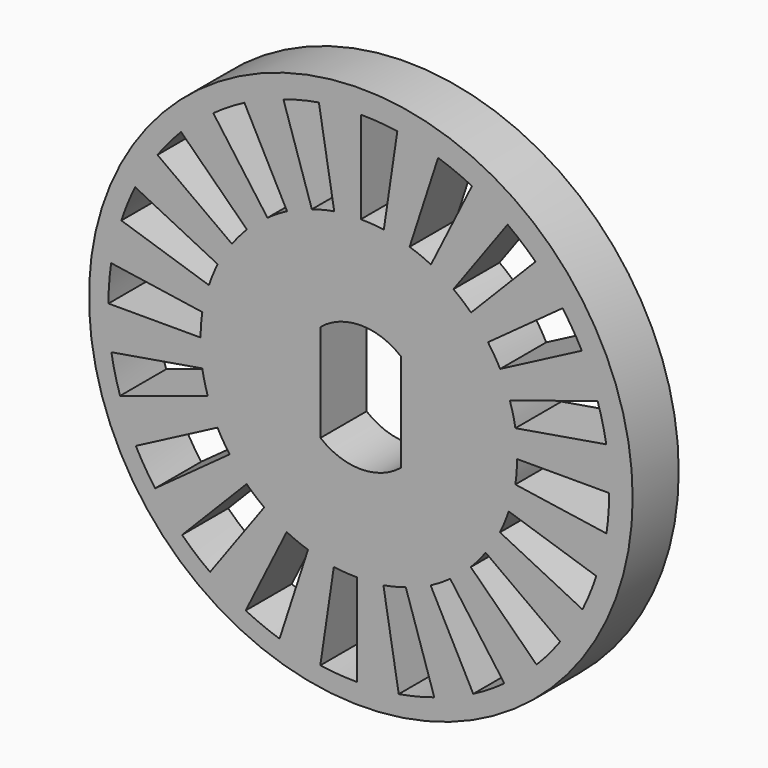
from build123d import *

# Parameters (mm, degrees)
F0_R     = 11.8
F1_DEPTH = 1.25
F3_DEPTH = 2.501
F5_DEPTH = 2.501


with BuildPart() as f1:
    # F0 (on Front) → F1 (new body, symmetric)
    with BuildSketch(Plane.XZ):
        Circle(F0_R)
    extrude(amount=F1_DEPTH, both=True)

    # F2 (on face) → F3 (cut, through all)
    with BuildSketch(Plane(origin=(0, 1.25, 0), x_dir=(-1, 0, 0), z_dir=(0, 1, 0))):
        with BuildLine():
            ThreePointArc((0, 10.8), (-0.794118, 10.770765), (-1.583936, 10.683218))
            Line((-1.583936, 10.683218), (-0.997293, 6.726471))
            ThreePointArc((-0.997293, 6.726471), (-0.5, 6.781593), (0, 6.8))
            Line((0, 6.8), (0, 10.8))
        make_face()
        with BuildLine():
            ThreePointArc((-6.371006, 8.673176), (-6.996277, 8.182754), (-7.583795, 7.647683))
            Line((-7.583795, 7.647683), (-4.783473, 4.791428))
            ThreePointArc((-4.783473, 4.791428), (-4.413554, 5.128324), (-4.019865, 5.437108))
            Line((-4.019865, 5.437108), (-6.371006, 8.673176))
        make_face()
        with BuildLine():
            ThreePointArc((-8.755893, 6.249643), (-9.199012, 5.590005), (-9.592429, 4.899569))
            Line((-9.592429, 4.899569), (-6.046533, 3.048456))
            ThreePointArc((-6.046533, 3.048456), (-5.798826, 3.483174), (-5.519825, 3.898502))
            Line((-5.519825, 3.898502), (-8.755893, 6.249643))
        make_face()
        with BuildLine():
            ThreePointArc((-10.275143, 3.207756), (-10.492735, 2.443471), (-10.65354, 1.665256))
            Line((-10.65354, 1.665256), (-6.709167, 1.000484))
            ThreePointArc((-6.709167, 1.000484), (-6.607919, 1.490472), (-6.470917, 1.971688))
            Line((-6.470917, 1.971688), (-10.275143, 3.207756))
        make_face()
        with BuildLine():
            ThreePointArc((-10.78004, -0.154725), (-10.750805, -0.948842), (-10.663258, -1.738661))
            Line((-10.663258, -1.738661), (-6.706511, -1.152018))
            ThreePointArc((-6.706511, -1.152018), (-6.761633, -0.654725), (-6.78004, -0.154725))
            Line((-6.78004, -0.154725), (-10.78004, -0.154725))
        make_face()
        with BuildLine():
            ThreePointArc((-10.221163, -3.508656), (-9.947962, -4.254872), (-9.620633, -4.978981))
            Line((-9.620633, -4.978981), (-6.038825, -3.198348))
            ThreePointArc((-6.038825, -3.198348), (-6.244922, -2.742428), (-6.416936, -2.272588))
            Line((-6.416936, -2.272588), (-10.221163, -3.508656))
        make_face()
        with BuildLine():
            ThreePointArc((-8.653216, -6.525731), (-8.162794, -7.151002), (-7.627724, -7.738519))
            Line((-7.627724, -7.738519), (-4.771468, -4.938197))
            ThreePointArc((-4.771468, -4.938197), (-5.108364, -4.568279), (-5.417149, -4.17459))
            Line((-5.417149, -4.17459), (-8.653216, -6.525731))
        make_face()
        with BuildLine():
            ThreePointArc((-6.229684, -8.910618), (-5.570045, -9.353737), (-4.87961, -9.747154))
            Line((-4.87961, -9.747154), (-3.028496, -6.201258))
            ThreePointArc((-3.028496, -6.201258), (-3.463215, -5.953551), (-3.878543, -5.67455))
            Line((-3.878543, -5.67455), (-6.229684, -8.910618))
        make_face()
        with BuildLine():
            ThreePointArc((-3.187796, -10.429868), (-2.423511, -10.647459), (-1.645296, -10.808264))
            Line((-1.645296, -10.808264), (-0.980524, -6.863891))
            ThreePointArc((-0.980524, -6.863891), (-1.470512, -6.762644), (-1.951728, -6.625641))
            Line((-1.951728, -6.625641), (-3.187796, -10.429868))
        make_face()
        with BuildLine():
            ThreePointArc((0.174684, -10.934765), (0.968802, -10.90553), (1.75862, -10.817983))
            Line((1.75862, -10.817983), (1.171977, -6.861235))
            ThreePointArc((1.171977, -6.861235), (0.674684, -6.916358), (0.174684, -6.934765))
            Line((0.174684, -6.934765), (0.174684, -10.934765))
        make_face()
        with BuildLine():
            ThreePointArc((3.528615, -10.375887), (4.274832, -10.102687), (4.99894, -9.775358))
            Line((4.99894, -9.775358), (3.218308, -6.19355))
            ThreePointArc((3.218308, -6.19355), (2.762387, -6.399646), (2.292547, -6.571661))
            Line((2.292547, -6.571661), (3.528615, -10.375887))
        make_face()
        with BuildLine():
            ThreePointArc((6.545691, -8.807941), (7.170961, -8.317519), (7.758479, -7.782448))
            Line((7.758479, -7.782448), (4.958157, -4.926192))
            ThreePointArc((4.958157, -4.926192), (4.588239, -5.263089), (4.19455, -5.571873))
            Line((4.19455, -5.571873), (6.545691, -8.807941))
        make_face()
        with BuildLine():
            ThreePointArc((8.930578, -6.384408), (9.373697, -5.72477), (9.767113, -5.034334))
            Line((9.767113, -5.034334), (6.221217, -3.183221))
            ThreePointArc((6.221217, -3.183221), (5.973511, -3.617939), (5.69451, -4.033267))
            Line((5.69451, -4.033267), (8.930578, -6.384408))
        make_face()
        with BuildLine():
            ThreePointArc((10.449827, -3.342521), (10.667419, -2.578236), (10.828224, -1.800021))
            Line((10.828224, -1.800021), (6.883851, -1.135249))
            ThreePointArc((6.883851, -1.135249), (6.782603, -1.625237), (6.645601, -2.106453))
            Line((6.645601, -2.106453), (10.449827, -3.342521))
        make_face()
        with BuildLine():
            ThreePointArc((10.954725, 0.01996), (10.92549, 0.814077), (10.837943, 1.603896))
            Line((10.837943, 1.603896), (6.881195, 1.017253))
            ThreePointArc((6.881195, 1.017253), (6.936317, 0.51996), (6.954725, 0.01996))
            Line((6.954725, 0.01996), (10.954725, 0.01996))
        make_face()
        with BuildLine():
            ThreePointArc((10.395847, 3.373891), (10.122647, 4.120107), (9.795317, 4.844216))
            Line((9.795317, 4.844216), (6.21351, 3.063583))
            ThreePointArc((6.21351, 3.063583), (6.419606, 2.607663), (6.591621, 2.137823))
            Line((6.591621, 2.137823), (10.395847, 3.373891))
        make_face()
        with BuildLine():
            ThreePointArc((8.827901, 6.390966), (8.337478, 7.016237), (7.802408, 7.603754))
            Line((7.802408, 7.603754), (4.946152, 4.803432))
            ThreePointArc((4.946152, 4.803432), (5.283048, 4.433514), (5.591833, 4.039825))
            Line((5.591833, 4.039825), (8.827901, 6.390966))
        make_face()
        with BuildLine():
            ThreePointArc((6.404368, 8.775853), (5.744729, 9.218972), (5.054294, 9.612389))
            Line((5.054294, 9.612389), (3.20318, 6.066493))
            ThreePointArc((3.20318, 6.066493), (3.637899, 5.818786), (4.053227, 5.539785))
            Line((4.053227, 5.539785), (6.404368, 8.775853))
        make_face()
        with BuildLine():
            ThreePointArc((3.362481, 10.295103), (2.598196, 10.512694), (1.81998, 10.6735))
            Line((1.81998, 10.6735), (1.155209, 6.729126))
            ThreePointArc((1.155209, 6.729126), (1.645196, 6.627879), (2.126413, 6.490877))
            Line((2.126413, 6.490877), (3.362481, 10.295103))
        make_face()
        with BuildLine():
            ThreePointArc((-3.353931, 10.241122), (-4.100148, 9.967922), (-4.824256, 9.640593))
            Line((-4.824256, 9.640593), (-3.043623, 6.058785))
            ThreePointArc((-3.043623, 6.058785), (-2.587703, 6.264881), (-2.117863, 6.436896))
            Line((-2.117863, 6.436896), (-3.353931, 10.241122))
        make_face()
    extrude(amount=-F3_DEPTH, mode=Mode.SUBTRACT)

    # F4 (on face) → F5 (cut, through all)
    with BuildSketch(Plane(origin=(0, 1.25, 0), x_dir=(-1, 0, 0), z_dir=(0, 1, 0))):
        with BuildLine():
            Line((-1.75, 2.12132), (-1.75, -2.12132))
            ThreePointArc((-1.75, -2.12132), (0, -2.75), (1.75, -2.12132))
            Line((1.75, -2.12132), (1.75, 2.12132))
            ThreePointArc((1.75, 2.12132), (0, 2.75), (-1.75, 2.12132))
        make_face()
    extrude(amount=-F5_DEPTH, mode=Mode.SUBTRACT)


solid = f1.part
